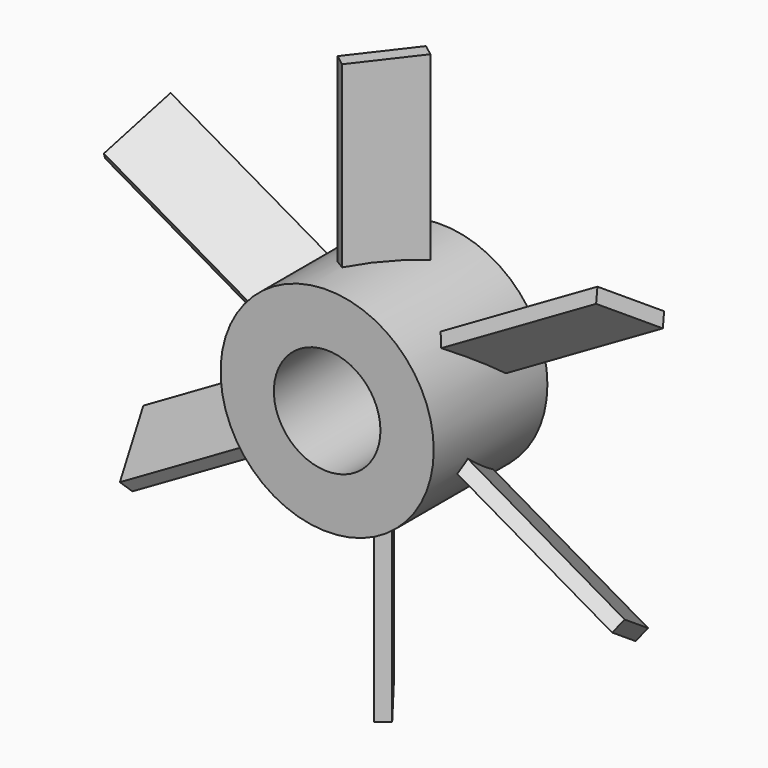
from build123d import *

# Parameters (mm, degrees)
F1_DEPTH = 25.4
F3_COUNT = 6
F4_R     = 9.525
F5_DEPTH = 6.35
F6_R     = 4.7625
F7_DEPTH = 12.7


with BuildPart() as f1:
    # F0 (on Top) → F1 (new body)
    with BuildSketch(Plane.XY):
        Polygon((2.437655, 2.131124), (1.43048, 2.904751), (-2.437655, -2.131124), (-1.43048, -2.904751), align=None)
    extrude(amount=F1_DEPTH)



with BuildPart() as f3_1:
    # F3: instance of F1
    add(f1.part.rotate(Axis((0, 19.05, 0), (0, 1, 0)), 1 * 360 / F3_COUNT))


with BuildPart() as f3_2:
    # F3: instance of F1
    add(f1.part.rotate(Axis((0, 19.05, 0), (0, 1, 0)), 2 * 360 / F3_COUNT))


with BuildPart() as f3_3:
    # F3: instance of F1
    add(f1.part.rotate(Axis((0, 19.05, 0), (0, 1, 0)), 3 * 360 / F3_COUNT))


with BuildPart() as f3_4:
    # F3: instance of F1
    add(f1.part.rotate(Axis((0, 19.05, 0), (0, 1, 0)), 4 * 360 / F3_COUNT))


with BuildPart() as f3_5:
    # F3: instance of F1
    add(f1.part.rotate(Axis((0, 19.05, 0), (0, 1, 0)), 5 * 360 / F3_COUNT))


with BuildPart() as f1_1:
    add(f1.part)

    add(f3_1.part)  # F5 merges F3_1

    add(f3_2.part)  # F5 merges F3_2

    add(f3_3.part)  # F5 merges F3_3

    add(f3_4.part)  # F5 merges F3_4

    add(f3_5.part)  # F5 merges F3_5
    # F4 (on Front) → F5 (join, symmetric)
    with BuildSketch(Plane.XZ):
        Circle(F4_R)
    extrude(amount=F5_DEPTH, both=True)

    # F6 (on face) → F7 (cut)
    with BuildSketch(Plane.XZ.offset(6.35)):
        Circle(F6_R)
    extrude(amount=-F7_DEPTH, mode=Mode.SUBTRACT)


solid = f1_1.part
